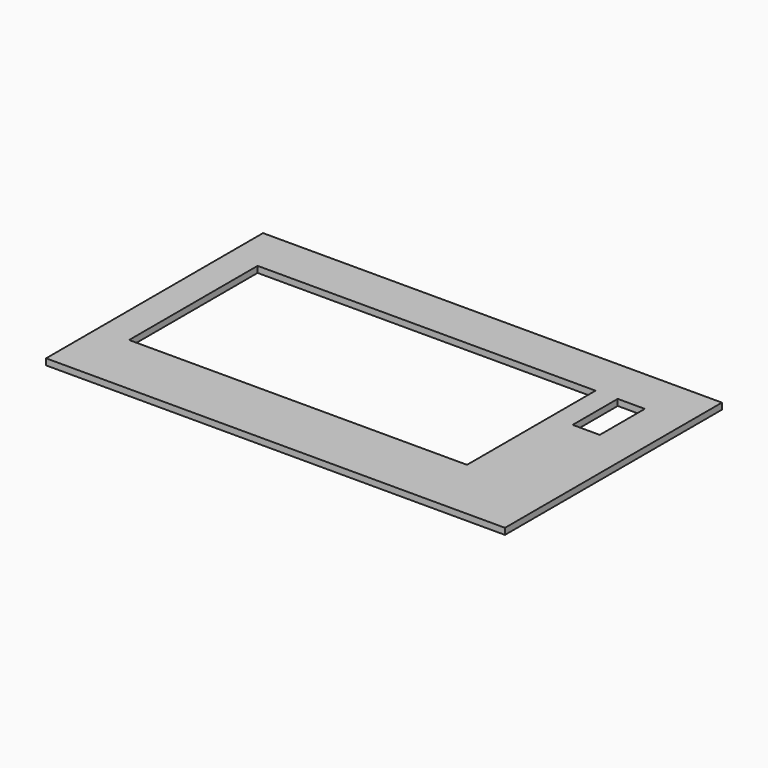
from build123d import *

# Parameters (mm, degrees)
SKETCH_W              = 220
SKETCH_H              = 130
PAD_DEPTH             = 3
SKETCH001_W           = 162
SKETCH001_H           = 77
POCKET_DEPTH          = 3.001
SKETCH002_W           = 13
SKETCH002_H           = 27
POCKET001_DEPTH       = 3.001
BODY_PLACEMENT_ANGLE  = 340
CLONE_PLACEMENT_ANGLE = 340


with BuildPart() as part:
    # Sketch → Pad (new body)
    with BuildSketch(Plane.XY):
        Rectangle(SKETCH_W, SKETCH_H)
    extrude(amount=PAD_DEPTH)

    # Sketch001 (on Face6 of Pad) → Pocket (cut, through all)
    with BuildSketch(Plane.XY.offset(3)):
        with Locations((-14, 4.5)):
            Rectangle(SKETCH001_W, SKETCH001_H)
    extrude(amount=-POCKET_DEPTH, mode=Mode.SUBTRACT)

    # Sketch002 (on Face5 of Pocket) → Pocket001 (cut, through all)
    with BuildSketch(Plane.XY.offset(3)):
        with Locations((84.141838, 29.5)):
            Rectangle(SKETCH002_W, SKETCH002_H)
    extrude(amount=-POCKET001_DEPTH, mode=Mode.SUBTRACT)


with BuildPart() as part_1:
    # Body placement: moved
    add(part.part.rotate(Axis((0, 0, 0), (1, 0, 0)), BODY_PLACEMENT_ANGLE))


with BuildPart() as part_2:
    # Clone placement: moved
    add(part_1.part.moved(Location((110, 65, -3))).rotate(Axis((110, 65, -3), (-1, 0, 0)), CLONE_PLACEMENT_ANGLE))


solid = part_2.part
